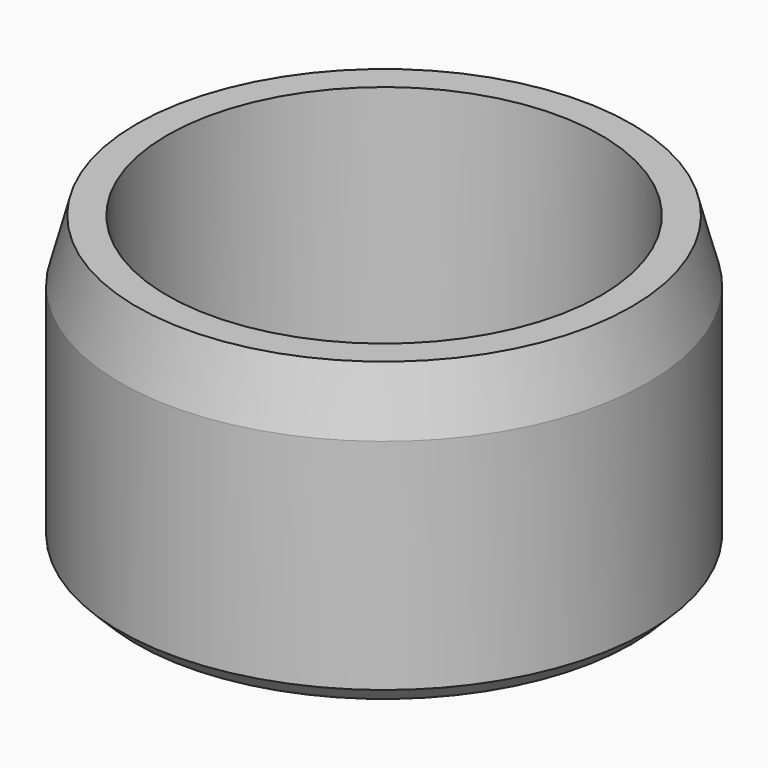
from build123d import *

# Parameters (mm, degrees)
F0_R     = 20.32
F0_R_2   = 16.7005
F1_DEPTH = 22.86
F2_DEPTH = 2.54
F3_SIZE2 = 4.7397045256
F3_SIZE  = 1.27
F4_SIZE  = 1.27


with BuildPart() as f1:
    # F0 (on Top) → F1 (new body)
    with BuildSketch(Plane.XY):
        Circle(F0_R)
        Circle(F0_R_2, mode=Mode.SUBTRACT)
    extrude(amount=F1_DEPTH)

    # F0 (on Top) → F2 (join)
    with BuildSketch(Plane.XY):
        Circle(F0_R)
        Circle(F0_R_2, mode=Mode.SUBTRACT)
        Circle(F0_R_2)
    extrude(amount=F2_DEPTH)

    # F3
    f3_edges = [f1.edges().sort_by_distance(p)[0] for p in [
        (-20.32, 0, 22.86),
    ]]
    f3_side = f1.faces().sort_by_distance((-19.745264, 0, 22.86))[0]
    chamfer(f3_edges, length=F3_SIZE, length2=F3_SIZE2, reference=f3_side)

    # F4
    f4_edges = [f1.edges().sort_by_distance(p)[0] for p in [
        (-20.32, 0, 0),
    ]]
    chamfer(f4_edges, length=F4_SIZE)


solid = f1.part
